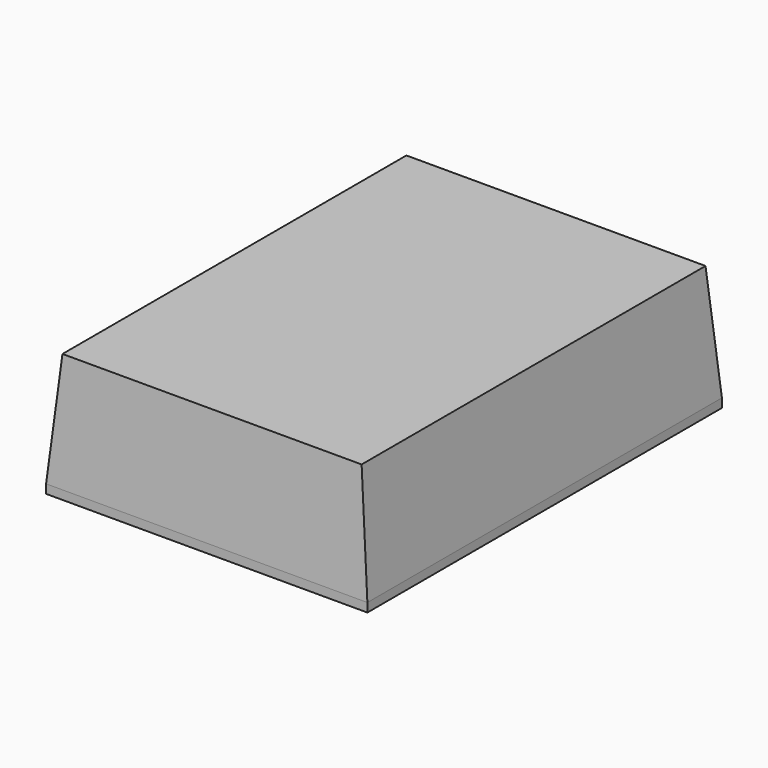
from build123d import *

# Parameters (mm, degrees)
SKETCH009_W      = 1.45
SKETCH009_H      = 2
EXTRUDE008_DEPTH = 0.56
CHAMFER_1_SIZE2  = 0.03
CHAMFER_1_SIZE   = 0.52
CHAMFER_2_SIZE2  = 0.03
CHAMFER_2_SIZE   = 0.52
CHAMFER001_SIZE2 = 0.52
CHAMFER001_SIZE  = 0.05
CHAMFER002_SIZE2 = 0.52
CHAMFER002_SIZE  = 0.05


with BuildPart() as part:
    # Sketch009 (on Face32 of Extrude003) → Extrude008 (new body)
    with BuildSketch(Plane.XY.offset(0.315)):
        Rectangle(SKETCH009_W, SKETCH009_H)
    extrude(amount=EXTRUDE008_DEPTH)

    # Chamfer 1
    chamfer_1_edges = [part.edges().sort_by_distance(p)[0] for p in [
        (0, 1, 0.875),
    ]]
    chamfer_1_side = part.faces().sort_by_distance((0, 1, 0.595))[0]
    chamfer(chamfer_1_edges, length=CHAMFER_1_SIZE, length2=CHAMFER_1_SIZE2, reference=chamfer_1_side)

    # Chamfer 2
    chamfer_2_edges = [part.edges().sort_by_distance(p)[0] for p in [
        (0, -1, 0.875),
    ]]
    chamfer_2_side = part.faces().sort_by_distance((0, -1, 0.595))[0]
    chamfer(chamfer_2_edges, length=CHAMFER_2_SIZE, length2=CHAMFER_2_SIZE2, reference=chamfer_2_side)

    # Chamfer001
    chamfer001_edges = [part.edges().sort_by_distance(p)[0] for p in [
        (0.725, 0, 0.875),
    ]]
    chamfer001_side = part.faces().sort_by_distance((0, 0, 0.875))[0]
    chamfer(chamfer001_edges, length=CHAMFER001_SIZE, length2=CHAMFER001_SIZE2, reference=chamfer001_side)

    # Chamfer002
    chamfer002_edges = [part.edges().sort_by_distance(p)[0] for p in [
        (-0.725, 0, 0.875),
    ]]
    chamfer002_side = part.faces().sort_by_distance((-0.025, 0, 0.875))[0]
    chamfer(chamfer002_edges, length=CHAMFER002_SIZE, length2=CHAMFER002_SIZE2, reference=chamfer002_side)


solid = part.part
